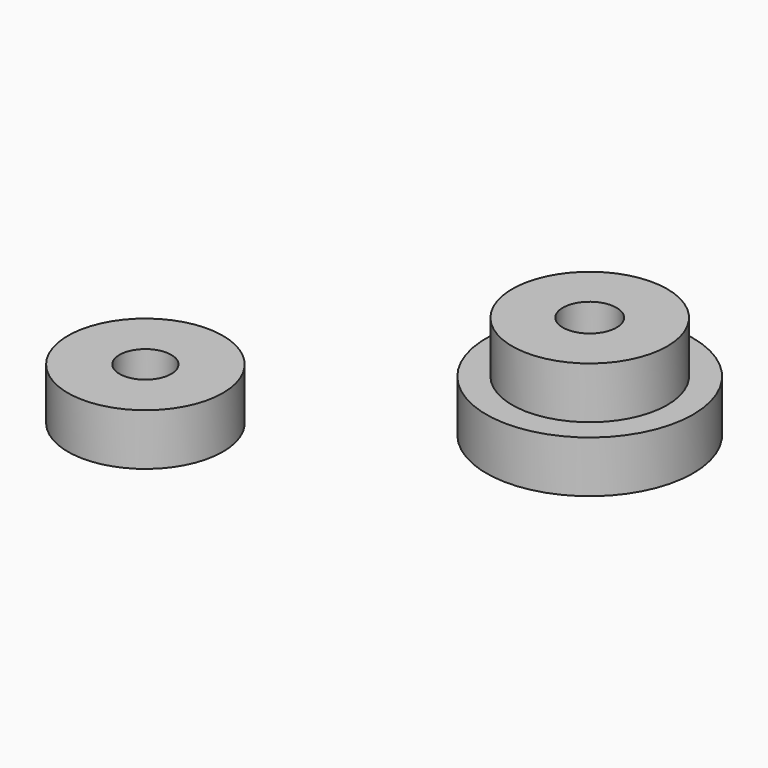
from build123d import *

# Parameters (mm, degrees)
F0_R     = 12.7
F0_R_2   = 3.302
F1_DEPTH = 6.35
F3_R     = 9.525
F3_R_2   = 3.18008
F4_DEPTH = 6.35
F2_R     = 9.525
F2_R_2   = 3.302
F5_DEPTH = 6.35


with BuildPart() as f1:
    # F0 (on Top) → F1 (new body)
    with BuildSketch(Plane.XY):
        Circle(F0_R)
        Circle(F0_R_2, mode=Mode.SUBTRACT)
    extrude(amount=F1_DEPTH)


with BuildPart() as f4:
    # F3 (on Top) → F4 (new body)
    with BuildSketch(Plane.XY):
        with Locations((-34.828402, -24.673155)):
            Circle(F3_R)
        with Locations((-34.828402, -24.673155)):
            Circle(F3_R_2, mode=Mode.SUBTRACT)
    extrude(amount=F4_DEPTH)


with BuildPart() as f5:
    # F2 (on face) → F5 (new body)
    with BuildSketch(Plane.XY.offset(6.35)):
        Circle(F2_R)
        Circle(F2_R_2, mode=Mode.SUBTRACT)
    extrude(amount=F5_DEPTH)


solid = Compound([f1.part, f4.part, f5.part])
